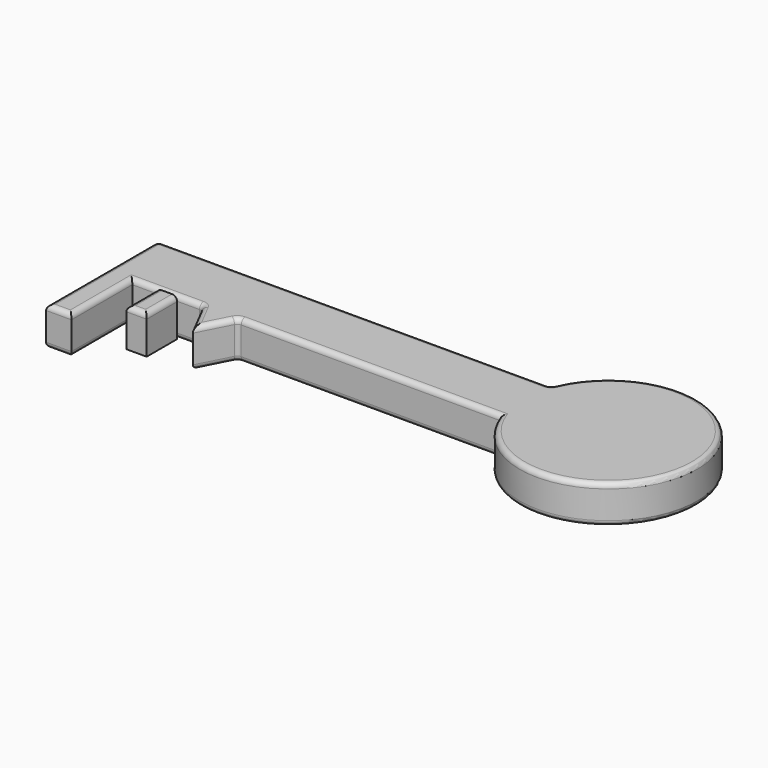
from build123d import *

# Parameters (mm, degrees)
F0_R     = 17.5
F0_W     = 10
F0_H     = 30
F1_DEPTH = 15
F0_W_2   = 8
F0_H_2   = 15
F2_R     = 2
F2_2_R   = 2


with BuildPart() as f1:
    # F0 (on Top) → F1 (new body)
    with BuildSketch(Plane.XY):
        with BuildLine():
            ThreePointArc((21.4457591921, 13.591414988), (89.1375012687, 26.091414988), (21.4457591921, 38.591414988))
            Line((21.4457591921, 38.591414988), (-133.5542408079, 38.591414988))
            Line((-133.5542408079, 38.591414988), (-133.5542408079, 13.591414988))
            Line((-133.5542408079, 13.591414988), (-123.5542408079, 13.591414988))
            Line((-123.5542408079, 13.591414988), (-95.8185951093, 13.591414988))
            Line((-95.8185951093, 13.591414988), (-81.8185951093, 13.591414988))
            Line((-81.8185951093, 13.591414988), (21.4457591921, 13.591414988))
        make_face()
        with Locations((54.1375012687, 26.091414988)):
            Circle(F0_R, mode=Mode.SUBTRACT)
        with Locations((-128.5542408079, -1.408585012)):
            Rectangle(F0_W, F0_H)
        Polygon((-88.8185951093, 0), (-81.8185951093, 13.591414988), (-95.8185951093, 13.591414988), align=None)
        with Locations((54.1375012687, 26.091414988)):
            Circle(F0_R)
    extrude(amount=F1_DEPTH)

    # F2
    f2_edges = [f1.edges().sort_by_distance(p)[0] for p in [
        (-56.054241, 38.591415, 15),
        (-133.554241, 11.091415, 15),
        (-123.554241, -1.408585, 15),
        (-109.686418, 13.591415, 15),
        (-92.318595, 6.795707, 15),
        (-85.318595, 6.795707, 15),
        (-30.186418, 13.591415, 15),
        (89.137501, 26.091415, 15),
        (21.445759, 38.591415, 7.5),
        (-133.554241, 38.591415, 7.5),
        (-56.054241, 38.591415, 0),
        (89.137501, 26.091415, 0),
        (-109.686418, 13.591415, 0),
        (-123.554241, -1.408585, 0),
        (-92.318595, 6.795707, 0),
        (-95.818595, 13.591415, 7.5),
        (-81.818595, 13.591415, 7.5),
        (-85.318595, 6.795707, 0),
        (-128.554241, -16.408585, 15),
        (-133.554241, 11.091415, 0),
        (-128.554241, -16.408585, 0),
        (-30.186418, 13.591415, 0),
    ]]
    fillet(f2_edges, radius=F2_R)


with BuildPart() as f1b:
    # F0 (on Top) → F1, piece 2 (new body)
    with BuildSketch(Plane.XY):
        with Locations((-109.7119444013, 5.8706905041)):
            Rectangle(F0_W_2, F0_H_2)
    extrude(amount=F1_DEPTH)

    # F2#2
    f2_2_edges = [f1b.edges().sort_by_distance(p)[0] for p in [
        (-113.711944, 5.870691, 15),
        (-109.711944, -1.629309, 15),
        (-105.711944, 5.870691, 15),
    ]]
    fillet(f2_2_edges, radius=F2_2_R)


solid = Compound([f1.part, f1b.part])
